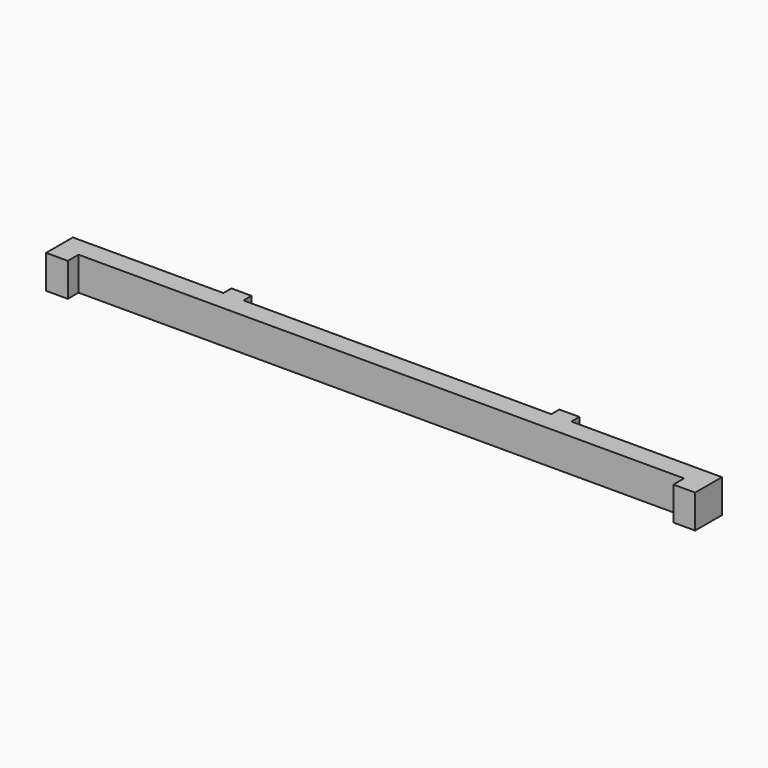
from build123d import *

# Parameters (mm, degrees)
F0_W     = 3
F0_H     = 1.5
F1_DEPTH = 5


with BuildPart() as f1:
    # F0 (on Top) → F1 (new body)
    with BuildSketch(Plane.XY):
        Polygon((-45.25, -3.5), (-45.25, -1.5), (-45.25, 1.5), (-48.5, 1.5), (-48.5, -3.5), align=None)
        with Locations((-24.5, 2.25)):
            Rectangle(F0_W, F0_H)
        Polygon((-45.25, -1.5), (45.25, -1.5), (45.25, 1.5), (26, 1.5), (23, 1.5), (-23, 1.5), (-26, 1.5), (-45.25, 1.5), align=None)
        with Locations((24.5, 2.25)):
            Rectangle(F0_W, F0_H)
        Polygon((45.25, 1.5), (45.25, -1.5), (45.25, -3.5), (48.5, -3.5), (48.5, 1.5), align=None)
    extrude(amount=F1_DEPTH)


solid = f1.part
